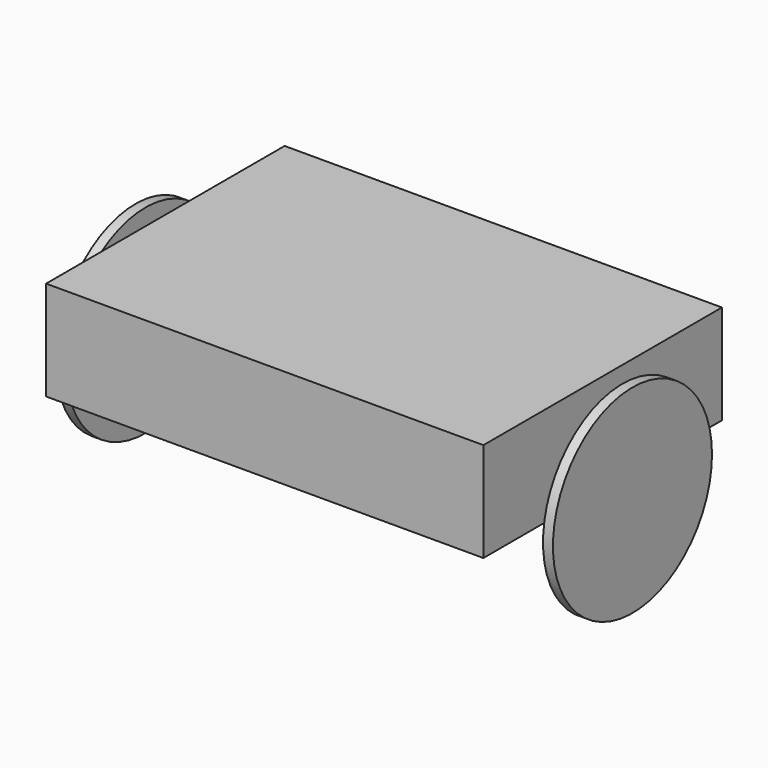
from build123d import *

# Parameters (mm, degrees)
F0_W     = 55.88
F0_H     = 12.7
F1_DEPTH = 38.1
F3_DEPTH = 58.42
F2_R     = 3.81
F4_DEPTH = 2.54
F5_R     = 12.7
F6_DEPTH = 1.27
F7_R     = 12.7
F8_DEPTH = 1.27


with BuildPart() as f1:
    # F0 (on Front) → F1 (new body)
    with BuildSketch(Plane.XZ):
        with Locations((27.94, 6.35)):
            Rectangle(F0_W, F0_H)
    extrude(amount=F1_DEPTH)

    # F2 (on face) → F3 (join)
    with BuildSketch(Plane.YZ.offset(55.88)):
        with BuildLine():
            ThreePointArc((-22.86, 0), (-19.05, -3.81), (-15.24, 0))
            Line((-15.24, 0), (-22.86, 0))
        make_face()
        with BuildLine():
            Line((-22.86, 0), (-15.24, 0))
            ThreePointArc((-15.24, 0), (-19.05, 3.81), (-22.86, 0))
        make_face()
    extrude(amount=-F3_DEPTH)

    # F2 (on face) → F4 (join)
    with BuildSketch(Plane.YZ.offset(55.88)):
        with Locations((-19.05, 0)):
            Circle(F2_R)
    extrude(amount=F4_DEPTH)

    # F5 (on face) → F6 (join)
    with BuildSketch(Plane(origin=(-2.54, 0, 0), x_dir=(0, -1, 0), z_dir=(-1, 0, 0))):
        with Locations((19.05, 0)):
            Circle(F5_R)
    extrude(amount=F6_DEPTH)

    # F7 (on face) → F8 (join)
    with BuildSketch(Plane.YZ.offset(58.42)):
        with Locations((-19.05, 0)):
            Circle(F7_R)
    extrude(amount=F8_DEPTH)


solid = f1.part
